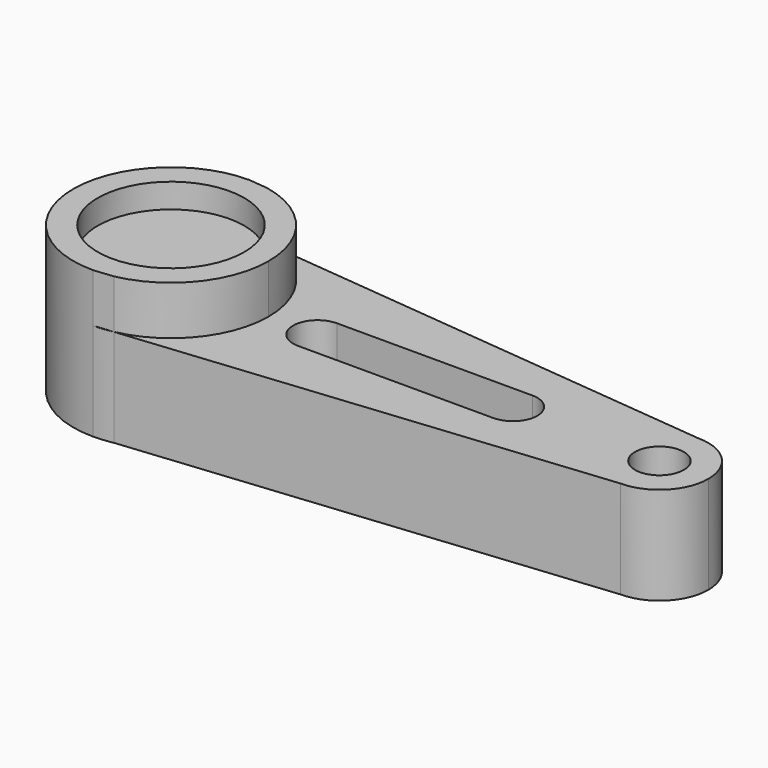
from build123d import *

# Parameters (mm, degrees)
F0_R     = 19.05
F1_DEPTH = 38.1
F2_DEPTH = 31.75
F0_R_2   = 6.35
F3_DEPTH = 25.4


with BuildPart() as f1:
    # F0 (on Top) → F1 (new body)
    with BuildSketch(Plane.XY):
        with BuildLine():
            Line((-84.90175, 24.89703), (-89.931453, 25.4))
            ThreePointArc((-89.931453, 25.4), (-115.331453, 0), (-89.931453, -25.4))
            Line((-89.931453, -25.4), (-84.90175, -24.89703))
            ThreePointArc((-84.90175, -24.89703), (-70.272937, -16.08424), (-64.531453, 0))
            ThreePointArc((-64.531453, 0), (-70.272937, 16.08424), (-84.90175, 24.89703))
        make_face()
        with Locations((-89.931453, 0)):
            Circle(F0_R, mode=Mode.SUBTRACT)
    extrude(amount=F1_DEPTH)

    # F0 (on Top) → F2 (join)
    with BuildSketch(Plane.XY):
        with Locations((-89.931453, 0)):
            Circle(F0_R)
    extrude(amount=F2_DEPTH)

    # F0 (on Top) → F3 (join)
    with BuildSketch(Plane.XY):
        with BuildLine():
            Line((-84.90175, 24.89703), (-89.931453, 25.4))
            ThreePointArc((-89.931453, 25.4), (-115.331453, 0), (-89.931453, -25.4))
            Line((-89.931453, -25.4), (-84.90175, -24.89703))
            ThreePointArc((-84.90175, -24.89703), (-70.272937, -16.08424), (-64.531453, 0))
            ThreePointArc((-64.531453, 0), (-70.272937, 16.08424), (-84.90175, 24.89703))
        make_face()
        with Locations((-89.931453, 0)):
            Circle(F0_R, mode=Mode.SUBTRACT)
        with BuildLine():
            ThreePointArc((-84.90175, 24.89703), (-87.404058, 25.273945), (-89.931453, 25.4))
            Line((-89.931453, 25.4), (-84.90175, 24.89703))
        make_face()
        with BuildLine():
            Line((-84.90175, -24.89703), (-89.931453, -25.4))
            ThreePointArc((-89.931453, -25.4), (-87.404058, -25.273945), (-84.90175, -24.89703))
        make_face()
        with BuildLine():
            Line((37.068547, 12.7), (-84.90175, 24.89703))
            ThreePointArc((-84.90175, 24.89703), (-70.272937, 16.08424), (-64.531453, 0))
            ThreePointArc((-64.531453, 0), (-70.272937, -16.08424), (-84.90175, -24.89703))
            Line((-84.90175, -24.89703), (37.068547, -12.7))
            ThreePointArc((37.068547, -12.7), (24.368547, 0), (37.068547, 12.7))
        make_face()
        with BuildLine():
            ThreePointArc((-51.831453, -6.35), (-58.181453, 0), (-51.831453, 6.35))
            Line((-51.831453, 6.35), (-1.031453, 6.35))
            ThreePointArc((-1.031453, 6.35), (5.318547, 0), (-1.031453, -6.35))
            Line((-1.031453, -6.35), (-51.831453, -6.35))
        make_face(mode=Mode.SUBTRACT)
        with BuildLine():
            ThreePointArc((49.768547, 0), (46.048803, 8.980256), (37.068547, 12.7))
            ThreePointArc((37.068547, 12.7), (24.368547, 0), (37.068547, -12.7))
            ThreePointArc((37.068547, -12.7), (46.048803, -8.980256), (49.768547, 0))
        make_face()
        with Locations((37.068547, 0)):
            Circle(F0_R_2, mode=Mode.SUBTRACT)
    extrude(amount=F3_DEPTH)


solid = f1.part
